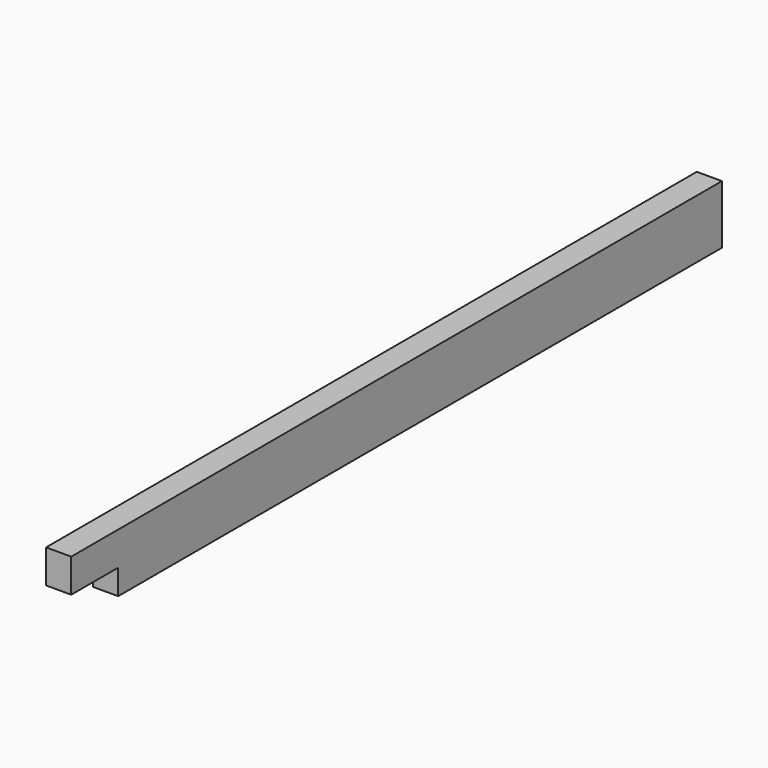
from build123d import *

# Parameters (mm, degrees)
F0_W     = 38.1
F0_H     = 1143
F1_DEPTH = 88.9
F0_H_2   = 88.9
F2_DEPTH = 50.8


with BuildPart() as f1:
    # F0 (on Top) → F1 (new body)
    with BuildSketch(Plane.XY):
        with Locations((0, 44.45)):
            Rectangle(F0_W, F0_H)
    extrude(amount=-F1_DEPTH)

    # F0 (on Top) → F2 (join)
    with BuildSketch(Plane.XY):
        with Locations((0, -571.5)):
            Rectangle(F0_W, F0_H_2)
    extrude(amount=-F2_DEPTH)


solid = f1.part
